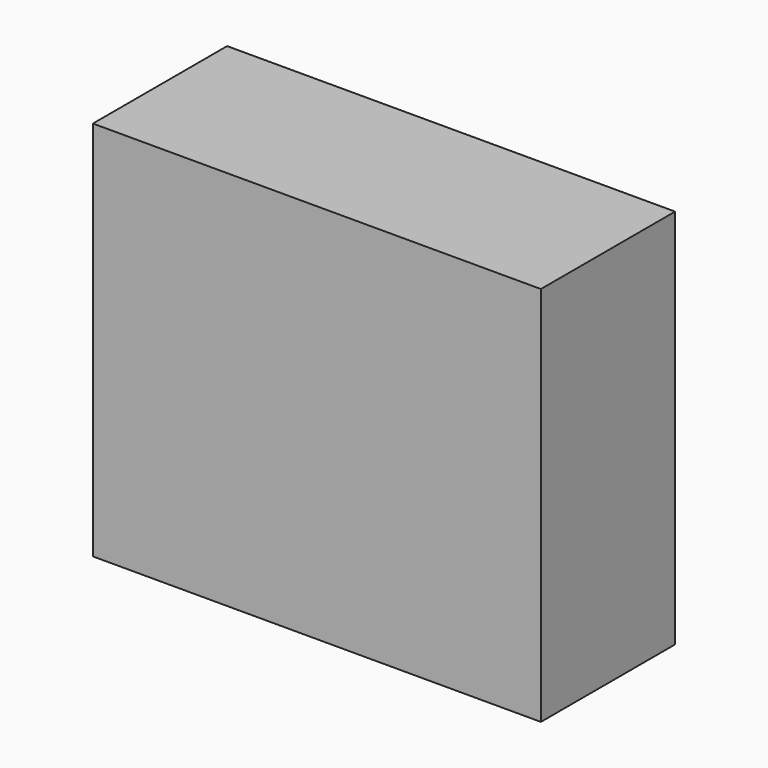
from build123d import *

# Parameters (mm, degrees)
F0_W     = 120.1791092753
F0_H     = 102.2321656346
F1_DEPTH = 20
F2_W     = 120.1791092753
F2_H     = 102.2321656346
F3_DEPTH = 25


with BuildPart() as f1:
    # F0 (on Front) → F1 (new body)
    with BuildSketch(Plane.XZ):
        Rectangle(F0_W, F0_H)
    extrude(amount=F1_DEPTH)

    # F2 (on face) → F3 (join)
    with BuildSketch(Plane.XZ.offset(20)):
        Rectangle(F2_W, F2_H)
    extrude(amount=F3_DEPTH)


solid = f1.part
